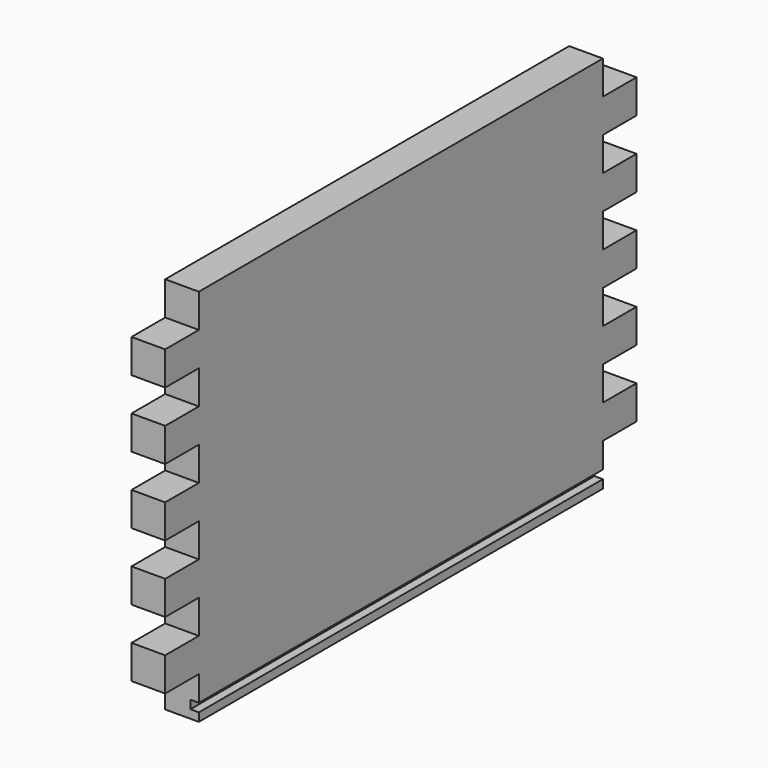
from build123d import *

# Parameters (mm, degrees)
F0_W     = 190.5
F0_H     = 3.175
F1_DEPTH = 9.525
F2_DEPTH = 12.7


with BuildPart() as f1:
    # F0 (on Right) → F1 (new body)
    with BuildSketch(Plane.YZ):
        with Locations((0, -68.2625)):
            Rectangle(F0_W, F0_H)
    extrude(amount=F1_DEPTH)

    # F0 (on Right) → F2 (join)
    with BuildSketch(Plane.YZ):
        Polygon((-95.25, -57.15), (-95.25, -66.675), (95.25, -66.675), (95.25, -57.15), (111.125, -57.15), (111.125, -44.45), (95.25, -44.45), (95.25, -31.75), (111.125, -31.75), (111.125, -19.05), (95.25, -19.05), (95.25, -6.35), (111.125, -6.35), (111.125, 6.35), (95.25, 6.35), (95.25, 19.05), (111.125, 19.05), (111.125, 31.75), (95.25, 31.75), (95.25, 44.45), (111.125, 44.45), (111.125, 57.15), (95.25, 57.15), (95.25, 69.85), (-95.25, 69.85), (-95.25, 57.15), (-111.125, 57.15), (-111.125, 44.45), (-95.25, 44.45), (-95.25, 31.75), (-111.125, 31.75), (-111.125, 19.05), (-95.25, 19.05), (-95.25, 6.35), (-111.125, 6.35), (-111.125, -6.35), (-95.25, -6.35), (-95.25, -19.05), (-111.125, -19.05), (-111.125, -31.75), (-95.25, -31.75), (-95.25, -44.45), (-111.125, -44.45), (-111.125, -57.15), align=None)
        with Locations((0, -71.4375)):
            Rectangle(F0_W, F0_H)
    extrude(amount=F2_DEPTH)


solid = f1.part
